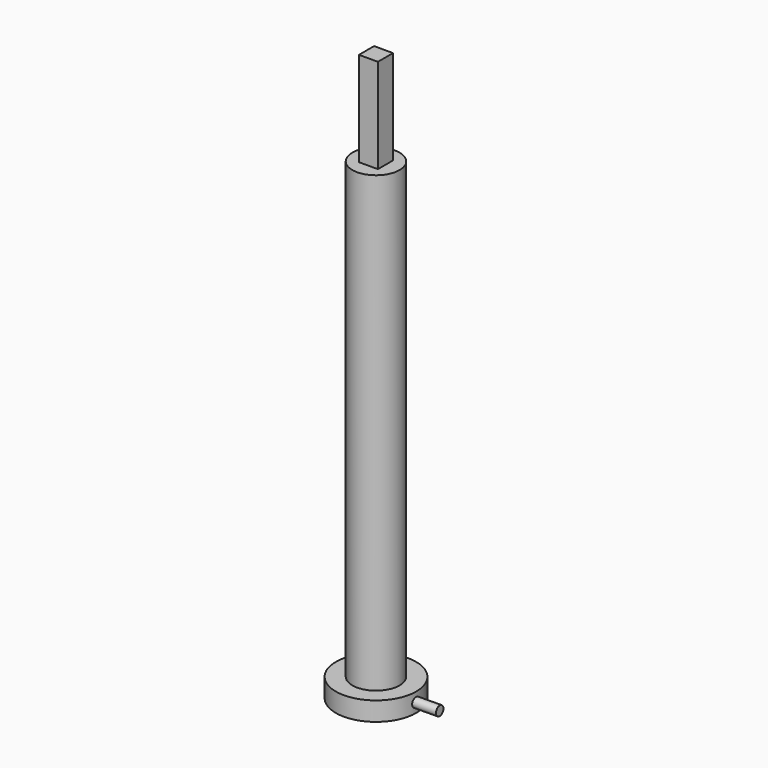
from build123d import *

# Parameters (mm, degrees)
F0_R     = 8.5
F1_DEPTH = 4
F2_R     = 5
F3_DEPTH = 100
F4_W     = 4
F4_H     = 4
F5_DEPTH = 20
F8_R     = 1
F9_DEPTH = 5


with BuildPart() as f1:
    # F0 (on Top) → F1 (new body)
    with BuildSketch(Plane.XY):
        Circle(F0_R)
    extrude(amount=F1_DEPTH)

    # F2 (on Top) → F3 (join)
    with BuildSketch(Plane.XY):
        Circle(F2_R)
    extrude(amount=F3_DEPTH)

    # F4 (on face) → F5 (join)
    with BuildSketch(Plane.XY.offset(100)):
        Rectangle(F4_W, F4_H)
    extrude(amount=F5_DEPTH)

    # F8 (on face) → F9 (join)
    with BuildSketch(Plane(origin=(8.440457, 0.093202, 0), x_dir=(-0.011042, 0.999939, 0), z_dir=(0.999939, 0.011042, 0))):
        with Locations((-0.093208, 2)):
            Circle(F8_R)
    extrude(amount=F9_DEPTH)


solid = f1.part
